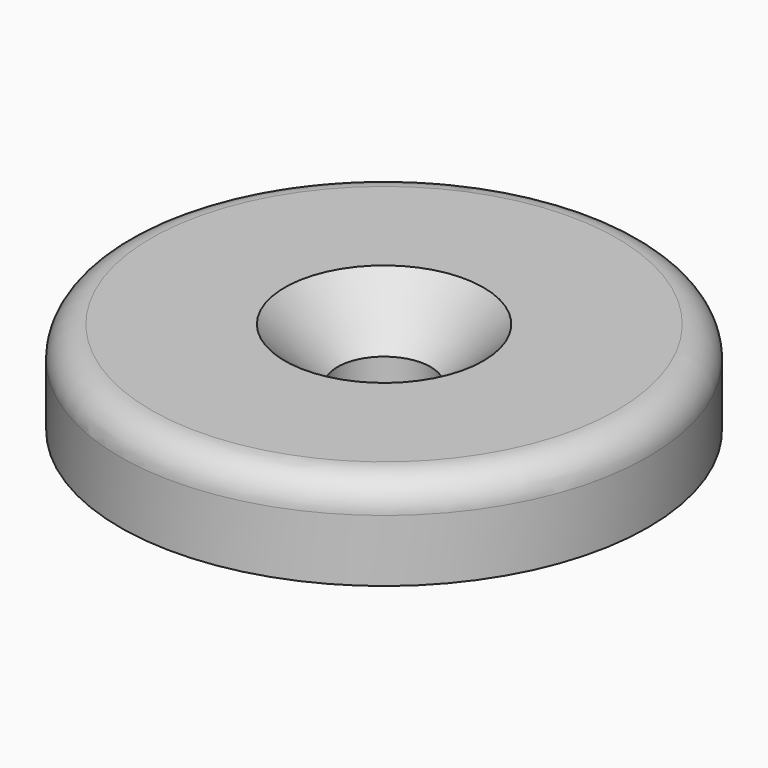
from build123d import *

# Parameters (mm, degrees)
SKETCH003_W = 8.5
SKETCH003_H = 3
FILLET_R    = 1


with BuildPart() as part:
    # Sketch003 → Revolution002 (revolve)
    with BuildSketch(Plane.XZ):
        with Locations((4.25, 35.166221)):
            Rectangle(SKETCH003_W, SKETCH003_H)
    revolve(axis=Axis((0, 0, 0), (0, 0, 1)))

    # Fillet
    fillet_edges = [part.edges().sort_by_distance(p)[0] for p in [
        (-8.5, 0, 36.666221),
    ]]
    fillet(fillet_edges, radius=FILLET_R)

    # Sketch004 → Groove (revolve, cut)
    with BuildSketch(Plane.XZ):
        Polygon((0, 36.666221), (0, 29.34667), (1.5, 29.34667), (1.5, 34.966221), (3.2, 36.666221), align=None)
    revolve(axis=Axis((0, 0, 0), (0, 0, 1)), mode=Mode.SUBTRACT)


solid = part.part
